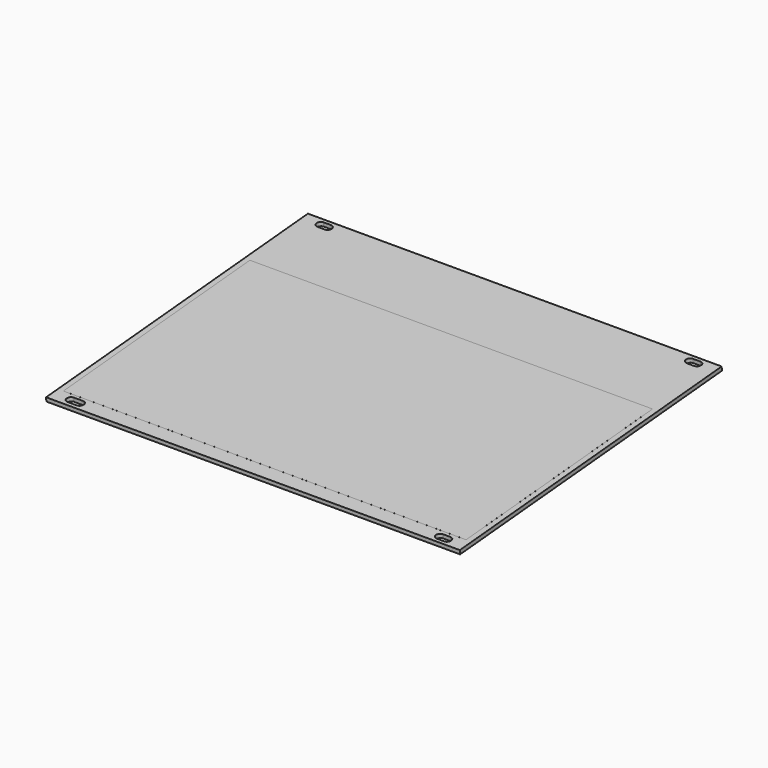
from build123d import *

# Parameters (mm, degrees)
SKETCH_W        = 168
SKETCH_H        = 133.4
PAD_DEPTH       = 1.6
SKETCH001_W     = 163.5
SKETCH001_H     = 95
PAD001_DEPTH    = 0.01
POCKET_DEPTH    = 1.601
POCKET001_DEPTH = 1.601
BODY_ROLL_ANGLE = 5


with BuildPart() as part:
    # Sketch → Pad (new body)
    with BuildSketch(Plane.XY):
        Rectangle(SKETCH_W, SKETCH_H)
    extrude(amount=PAD_DEPTH)

    # Sketch001 (on Face6 of Pad) → Pad001 (join)
    with BuildSketch(Plane.XY.offset(1.6)):
        with Locations((0, -13.2)):
            Rectangle(SKETCH001_W, SKETCH001_H)
    extrude(amount=PAD001_DEPTH)

    # Sketch002 (on Face5 of Pad001) → Pocket (cut, through all)
    with BuildSketch(Plane.XY.offset(1.6)):
        with BuildLine():
            ThreePointArc((-76.5, -61.965896), (-78.1, -63.565896), (-76.5, -65.165896))
            Line((-76.5, -65.165896), (-72.75134, -65.165896))
            ThreePointArc((-72.75134, -65.165896), (-71.15134, -63.565896), (-72.75134, -61.965896))
            Line((-76.5, -61.965896), (-72.75134, -61.965896))
        make_face()
    extrude(amount=-POCKET_DEPTH, mode=Mode.SUBTRACT)

    # Sketch003 (on Face5 of Pocket) → Pocket001 (cut, through all)
    with BuildSketch(Plane.XY.offset(1.6)):
        with BuildLine():
            ThreePointArc((73.5, -62.1), (71.9, -63.7), (73.5, -65.3))
            Line((73.5, -65.3), (76.5, -65.3))
            ThreePointArc((76.5, -65.3), (78.1, -63.7), (76.5, -62.1))
            Line((73.5, -62.1), (76.5, -62.1))
        make_face()
        with BuildLine():
            ThreePointArc((73.5, 65.3), (71.9, 63.7), (73.5, 62.1))
            Line((73.5, 62.1), (76.5, 62.1))
            ThreePointArc((76.5, 62.1), (78.1, 63.7), (76.5, 65.3))
            Line((73.5, 65.3), (76.5, 65.3))
        make_face()
        with BuildLine():
            ThreePointArc((-76.5, 65.3), (-78.1, 63.7), (-76.5, 62.1))
            Line((-76.5, 62.1), (-73.5, 62.1))
            ThreePointArc((-73.5, 62.1), (-71.9, 63.7), (-73.5, 65.3))
            Line((-76.5, 65.3), (-73.5, 65.3))
        make_face()
    extrude(amount=-POCKET001_DEPTH, mode=Mode.SUBTRACT)


with BuildPart() as part_1:
    # Body roll: moved
    add(part.part.rotate(Axis((0, 0, 0), (1, 0, 0)), BODY_ROLL_ANGLE))


with BuildPart() as part_2:
    # Body placement: moved
    add(part_1.part.moved(Location((0, 47.65, 18.82))))


solid = part_2.part
